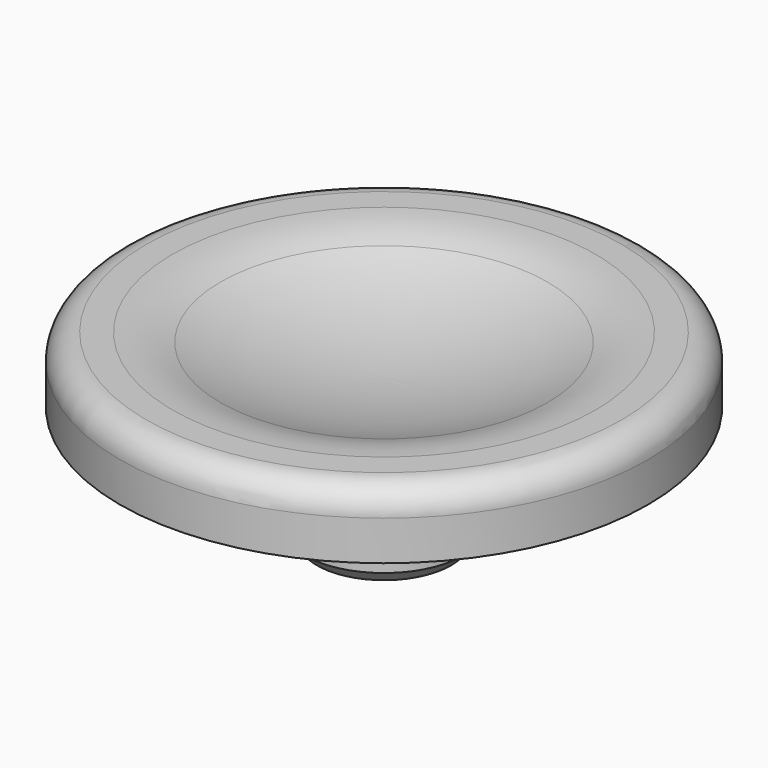
from build123d import *

# Parameters (mm, degrees)
F2_R    = 5
F3_R    = 1
F4_SIZE = 0.5


with BuildPart() as f1:
    # F0 (on Front) → F1 (revolve)
    with BuildSketch(Plane.XZ):
        with BuildLine():
            Line((0, 5.45), (0, 0))
            Line((0, 0), (3.04, 0))
            Line((3.04, 0), (3.04, 2.95))
            Line((3.04, 2.95), (4.5, 2.95))
            Line((4.5, 2.95), (4.5, 4.45))
            Line((4.5, 4.45), (10, 4.45))
            Line((10, 4.45), (10, 6.95))
            Line((10, 6.95), (7, 6.95))
            ThreePointArc((7, 6.95), (3.579455, 5.829209), (0, 5.45))
        make_face()
    revolve(axis=Axis((0, 0, 3.81847), (0, 0, -1)))

    # F2
    f2_edges = [f1.edges().sort_by_distance(p)[0] for p in [
        (-7, 0, 6.95),
    ]]
    fillet(f2_edges, radius=F2_R)

    # F3
    f3_edges = [f1.edges().sort_by_distance(p)[0] for p in [
        (-10, 0, 6.95),
    ]]
    fillet(f3_edges, radius=F3_R)

    # F4
    f4_edges = [f1.edges().sort_by_distance(p)[0] for p in [
        (-3.04, 0, 0),
    ]]
    chamfer(f4_edges, length=F4_SIZE)


solid = f1.part
